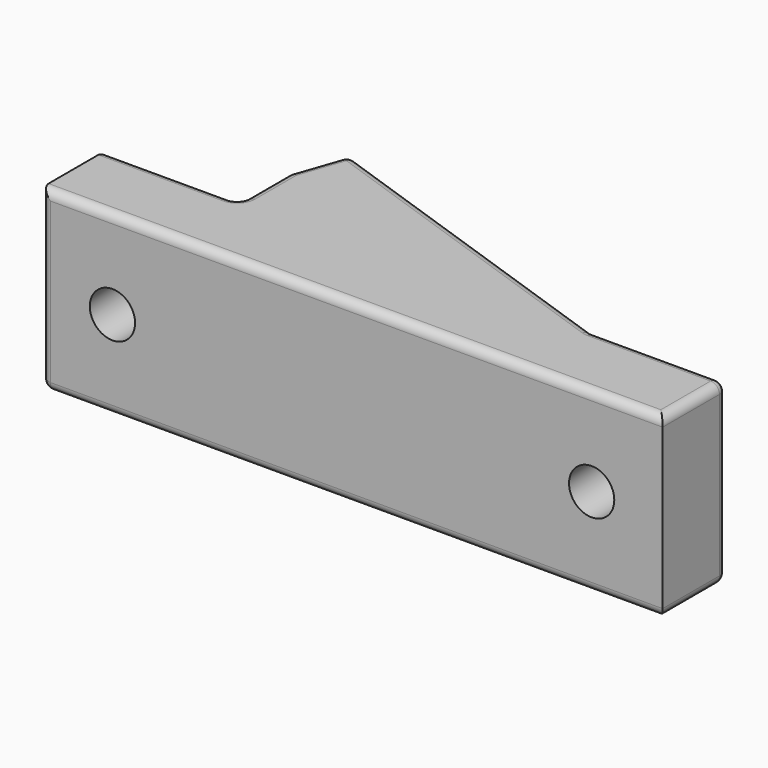
from build123d import *

# Parameters (mm, degrees)
PAD_DEPTH       = 20
SKETCH001_R     = 2.55
POCKET_DEPTH    = 22.0443961318
SKETCH002_R     = 2.55
POCKET001_DEPTH = 10
SKETCH003_R     = 5
POCKET002_DEPTH = 3.5
POCKET003_DEPTH = 16.2
FILLET_R        = 1


with BuildPart() as part:
    # Sketch → Pad (new body)
    with BuildSketch(Plane.XY):
        Polygon((-35, 0), (-35, 9), (-19.949111567, 9), (-19.949111567, 16), (-17.8645079021, 22.0433961318), (19.949111567, 9), (35, 9), (35, 0), align=None)
    extrude(amount=PAD_DEPTH)

    # Sketch001 (on Face8 of Pad) → Pocket (cut, through all)
    with BuildSketch(Plane.XZ):
        with Locations((-27, 10)):
            Circle(SKETCH001_R)
        with Locations((27, 10)):
            Circle(SKETCH001_R)
    extrude(amount=-POCKET_DEPTH, mode=Mode.SUBTRACT)

    # Sketch002 (on Face11 of Pocket) → Pocket001 (cut)
    with BuildSketch(Plane(origin=(4.8955675974, 14.1925560139, 0), x_dir=(-0.9453404867, 0.3260849033, 0), z_dir=(0.3260849033, 0.9453404867, 0))):
        with Locations((-5.9239387088, 10)):
            Circle(SKETCH002_R)
        with Locations((14.0760612912, 10)):
            Circle(SKETCH002_R)
    extrude(amount=-POCKET001_DEPTH, mode=Mode.SUBTRACT)

    # Sketch003 (on Face12 of Pocket001) → Pocket002 (cut)
    with BuildSketch(Plane(origin=(0, 9, 0), x_dir=(-1, 0, 0), z_dir=(0, 1, 0))):
        with Locations((-27, 10)):
            Circle(SKETCH003_R)
        with Locations((27, 10)):
            Circle(SKETCH003_R)
    extrude(amount=-POCKET002_DEPTH, mode=Mode.SUBTRACT)

    # Sketch004 (on Face4 of Pocket002) → Pocket003 (cut)
    with BuildSketch(Plane(origin=(0, 0, 0), x_dir=(1, 0, 0), z_dir=(0, 0, -1))):
        Polygon((-14.9184124801, -13.4108691689), (-6.5994161969, -10.5413220199), (-5.2298596031, -14.5117520642), (-13.5488558863, -17.3812992131), align=None)
        Polygon((3.9883972544, -6.889171103), (5.3579538482, -10.8596011473), (13.6769501314, -7.9900539983), (12.3073935376, -4.019623954), align=None)
    extrude(amount=-POCKET003_DEPTH, mode=Mode.SUBTRACT)

    # Fillet
    fillet_edges = [part.edges().sort_by_distance(p)[0] for p in [
        (0, 0, 0),
        (-35, 0, 10),
        (-35, 4.5, 0),
        (-35, 9, 10),
        (-27.474556, 9, 0),
        (1.042302, 15.521698, 0),
        (27.474556, 9, 0),
        (35, 4.5, 0),
        (-18.90681, 19.021698, 0),
        (-19.949112, 16, 10),
        (-19.949112, 12.5, 0),
        (35, 9, 10),
        (-17.864508, 22.043396, 10),
        (-18.90681, 19.021698, 20),
        (-19.949112, 12.5, 20),
        (-27.474556, 9, 20),
        (0, 0, 20),
        (27.474556, 9, 20),
        (35, 4.5, 20),
        (1.042302, 15.521698, 20),
        (19.949112, 9, 10),
        (-19.949112, 9, 10),
        (32, 9, 10),
        (-22, 9, 10),
    ]]
    fillet(fillet_edges, radius=FILLET_R)


solid = part.part
